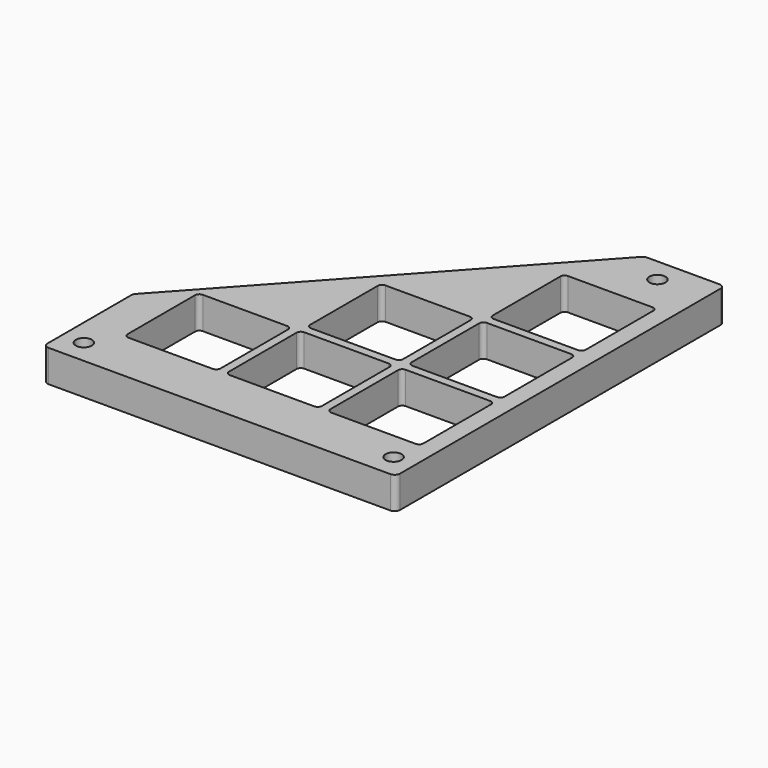
from build123d import *

# Parameters (mm, degrees)
F0_R     = 1.5
F0_W     = 17.4
F0_H     = 17.4
F1_DEPTH = 6
F2_R     = 0.8
F3_R     = 1


with BuildPart() as f1:
    # F0 (on Top) → F1 (new body)
    with BuildSketch(Plane.XY):
        Polygon((0, 21), (0, 0), (66, 0), (66, 77), (51, 77), align=None)
        with Locations((4, 4.5)):
            Circle(F0_R, mode=Mode.SUBTRACT)
        with Locations((16, 18.5)):
            Rectangle(F0_W, F0_H, mode=Mode.SUBTRACT)
        with Locations((35, 18.5)):
            Rectangle(F0_W, F0_H, mode=Mode.SUBTRACT)
        with Locations((62, 4.5)):
            Circle(F0_R, mode=Mode.SUBTRACT)
        with Locations((54, 18.5)):
            Rectangle(F0_W, F0_H, mode=Mode.SUBTRACT)
        with Locations((35, 37.5)):
            Rectangle(F0_W, F0_H, mode=Mode.SUBTRACT)
        with Locations((54, 37.5)):
            Rectangle(F0_W, F0_H, mode=Mode.SUBTRACT)
        with Locations((54, 56.5)):
            Rectangle(F0_W, F0_H, mode=Mode.SUBTRACT)
        with Locations((57, 72.5)):
            Circle(F0_R, mode=Mode.SUBTRACT)
    extrude(amount=F1_DEPTH)

    # F2
    f2_edges = [f1.edges().sort_by_distance(p)[0] for p in [
        (7.3, 27.2, 3),
        (26.3, 27.2, 3),
        (45.3, 27.2, 3),
        (26.3, 46.2, 3),
        (45.3, 46.2, 3),
        (45.3, 65.2, 3),
        (62.7, 65.2, 3),
        (62.7, 46.2, 3),
        (62.7, 27.2, 3),
        (43.7, 46.2, 3),
        (43.7, 27.2, 3),
        (24.7, 27.2, 3),
        (62.7, 47.8, 3),
        (62.7, 28.8, 3),
        (62.7, 9.8, 3),
        (43.7, 9.8, 3),
        (24.7, 9.8, 3),
        (43.7, 28.8, 3),
        (26.3, 28.8, 3),
        (26.3, 9.8, 3),
        (7.3, 9.8, 3),
        (45.3, 9.8, 3),
        (45.3, 28.8, 3),
        (45.3, 47.8, 3),
    ]]
    fillet(f2_edges, radius=F2_R)

    # F3
    f3_edges = [f1.edges().sort_by_distance(p)[0] for p in [
        (66, 77, 3),
        (51, 77, 3),
        (0, 21, 3),
        (0, 0, 3),
        (66, 0, 3),
    ]]
    fillet(f3_edges, radius=F3_R)


solid = f1.part
